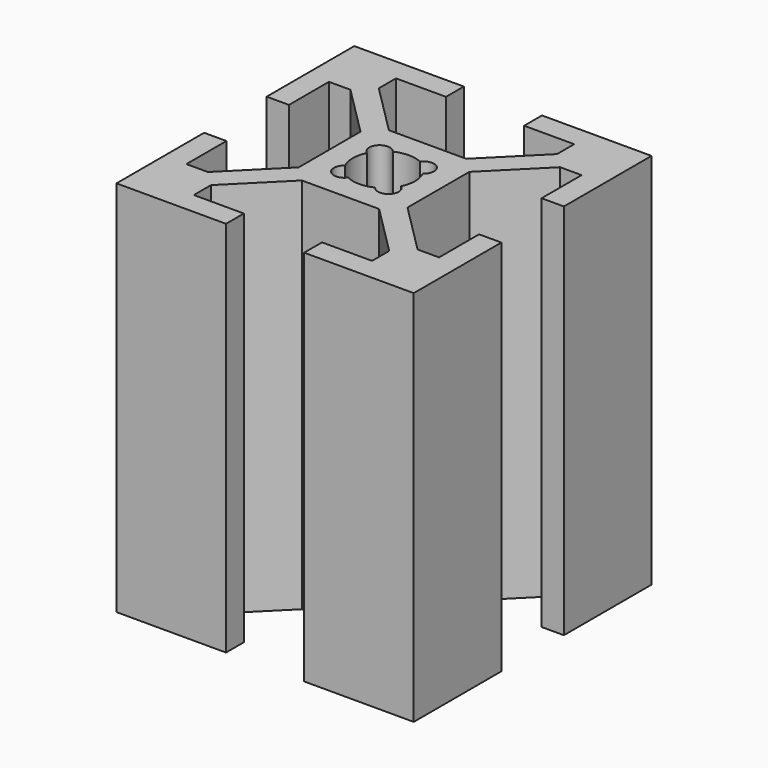
from build123d import *

# Parameters (mm, degrees)
F1_DEPTH = 25.4


with BuildPart() as f1:
    # F0 (on Top) → F1 (new body)
    with BuildSketch(Plane.XY):
        Polygon((10, 2.63), (10, 10), (2.63, 10), (2.63, 8.5), (5.995, 8.5), (5.995, 7.05566), (2.59934, 3.66), (-2.59934, 3.66), (-5.995, 7.05566), (-5.995, 8.5), (-2.63, 8.5), (-2.63, 10), (-10, 10), (-10, 2.63), (-8.5, 2.63), (-8.5, 5.995), (-7.05566, 5.995), (-3.66, 2.59934), (-3.66, -2.59934), (-7.05566, -5.995), (-8.5, -5.995), (-8.5, -2.63), (-10, -2.63), (-10, -10), (-2.63, -10), (-2.63, -8.5), (-5.995, -8.5), (-5.995, -7.05566), (-2.59934, -3.66), (2.59934, -3.66), (5.995, -7.05566), (5.995, -8.5), (2.63, -8.5), (2.63, -10), (10, -10), (10, -2.63), (8.5, -2.63), (8.5, -5.995), (7.05566, -5.995), (3.66, -2.59934), (3.66, 2.59934), (7.05566, 5.995), (8.5, 5.995), (8.5, 2.63), align=None)
        with BuildLine():
            ThreePointArc((1.886053, 0.912048), (2.042095, 0.467838), (2.095, 0))
            ThreePointArc((2.095, 0), (2.042095, -0.467838), (1.886053, -0.912048))
            ThreePointArc((1.886053, -0.912048), (2.102098, -1.161042), (2.179889, -1.481389))
            ThreePointArc((2.179889, -1.481389), (1.693777, -2.146816), (0.912048, -1.886053))
            ThreePointArc((0.912048, -1.886053), (0, -2.095), (-0.912048, -1.886053))
            ThreePointArc((-0.912048, -1.886053), (-1.975303, -1.975303), (-1.886053, -0.912048))
            ThreePointArc((-1.886053, -0.912048), (-2.095, 0), (-1.886053, 0.912048))
            ThreePointArc((-1.886053, 0.912048), (-1.975303, 1.975303), (-0.912048, 1.886053))
            ThreePointArc((-0.912048, 1.886053), (0, 2.095), (0.912048, 1.886053))
            ThreePointArc((0.912048, 1.886053), (1.693777, 2.146816), (2.179889, 1.481389))
            ThreePointArc((2.179889, 1.481389), (2.102098, 1.161042), (1.886053, 0.912048))
        make_face(mode=Mode.SUBTRACT)
    extrude(amount=F1_DEPTH)


solid = f1.part
